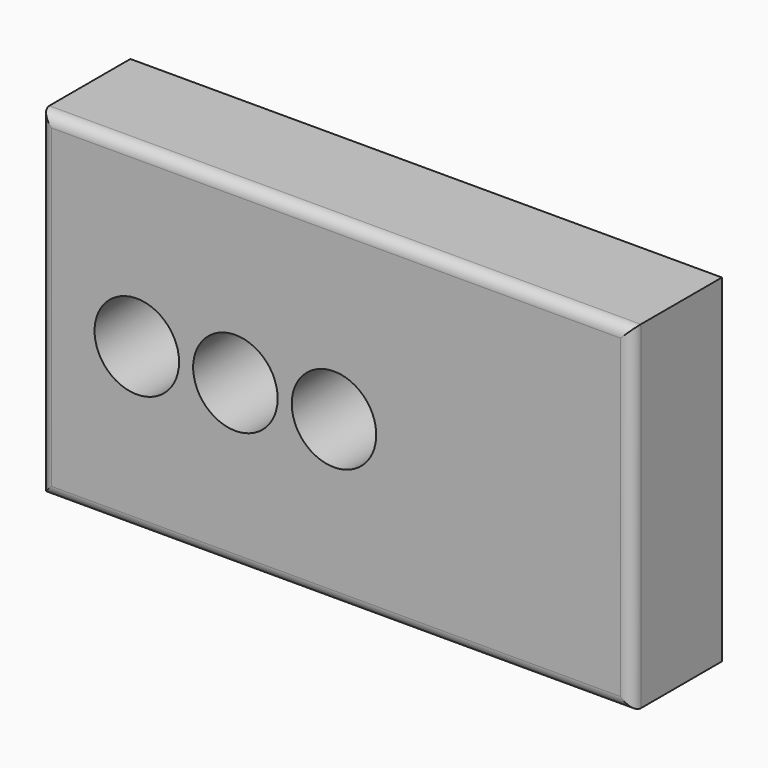
from build123d import *

# Parameters (mm, degrees)
F0_W     = 266.7
F0_H     = 152.4
F1_DEPTH = 50.8
F2_R     = 19.05
F3_DEPTH = 50.8
F4_R     = 5.08


with BuildPart() as f1:
    # F0 (on Front) → F1 (new body)
    with BuildSketch(Plane.XZ):
        with Locations((45.351288, 3.098867)):
            Rectangle(F0_W, F0_H)
    extrude(amount=F1_DEPTH)

    # F2 (on face) → F3 (cut)
    with BuildSketch(Plane.XZ.offset(50.8)):
        with BuildLine():
            ThreePointArc((-19.05, 0), (0, -19.05), (19.05, 0))
            ThreePointArc((19.05, 0), (0, 19.05), (-19.05, 0))
        make_face()
        with Locations((-44.45, 0)):
            Circle(F2_R)
        with BuildLine():
            ThreePointArc((63.5, 0), (44.45, 19.05), (25.4, 0))
            ThreePointArc((25.4, 0), (44.45, -19.05), (63.5, 0))
        make_face()
    extrude(amount=-F3_DEPTH, mode=Mode.SUBTRACT)

    # F4
    f4_edges = [f1.edges().sort_by_distance(p)[0] for p in [
        (45.351288, -50.8, 79.298867),
        (-87.998712, -50.8, 3.098867),
        (45.351288, -50.8, -73.101133),
        (178.701288, -50.8, 3.098867),
    ]]
    fillet(f4_edges, radius=F4_R)


solid = f1.part
